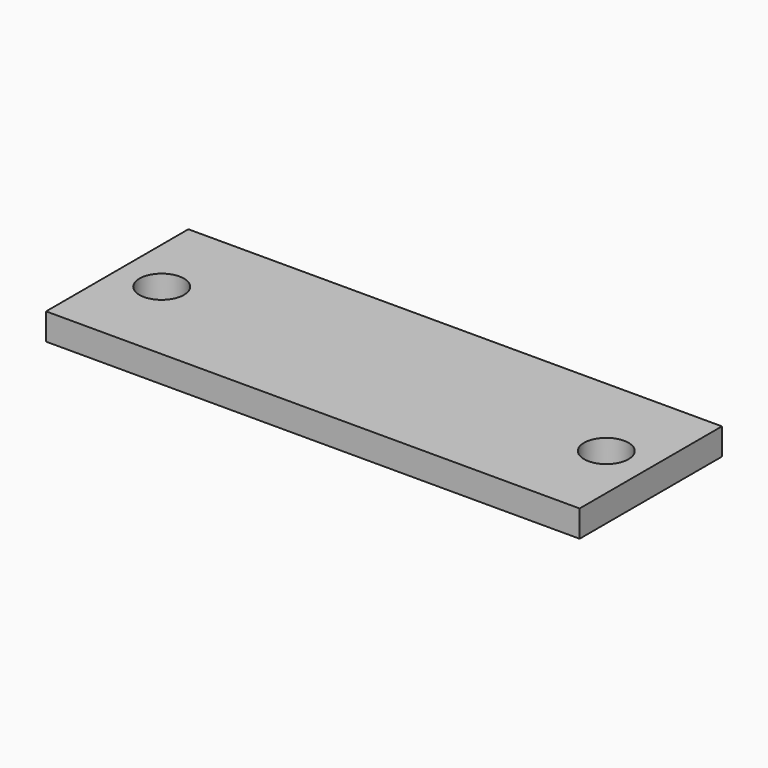
from build123d import *

# Parameters (mm, degrees)
SKETCH_W  = 60
SKETCH_H  = 20
SKETCH_R  = 2.5
PAD_DEPTH = 3


with BuildPart() as part:
    # Sketch → Pad (new body)
    with BuildSketch(Plane.XY):
        with Locations((30, 10)):
            Rectangle(SKETCH_W, SKETCH_H)
        with Locations((5, 10)):
            Circle(SKETCH_R, mode=Mode.SUBTRACT)
        with Locations((55, 10)):
            Circle(SKETCH_R, mode=Mode.SUBTRACT)
    extrude(amount=PAD_DEPTH)


solid = part.part
